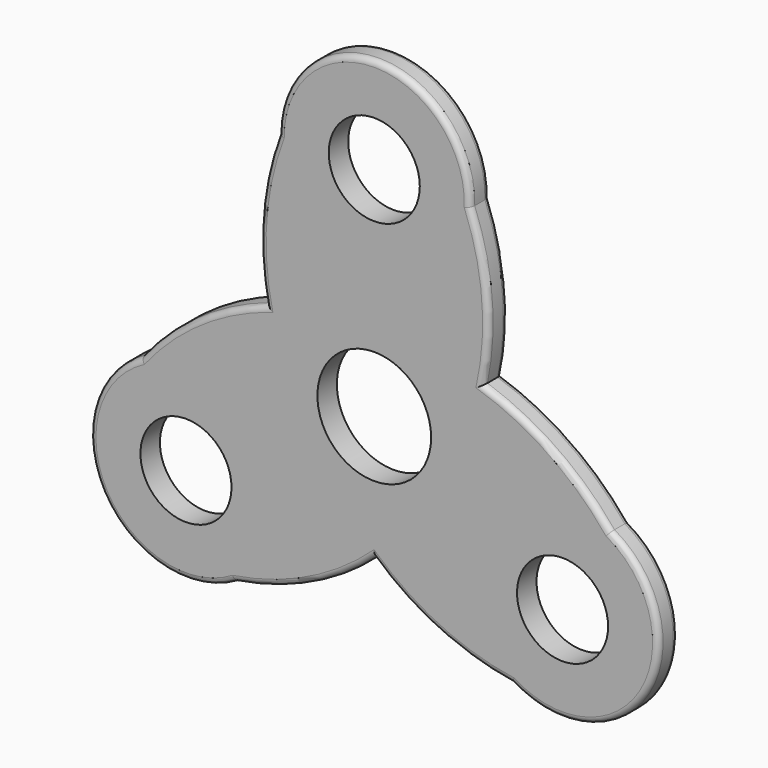
from build123d import *

# Parameters (mm, degrees)
F0_R     = 11.8632229494
F0_R_2   = 14.8180946675
F1_DEPTH = 6.35
F2_R     = 1.524


with BuildPart() as f1:
    # F0 (on Front) → F1 (new body)
    with BuildSketch(Plane.XZ):
        with BuildLine():
            ThreePointArc((28.2651000935, 16.2447427168), (29.5213330142, 36.295048472), (24.9722020683, 55.8628355125))
            ThreePointArc((24.9722020683, 55.8628355125), (0.3052404709, 81.6309900945), (-24.9839383466, 56.4732036309))
            ThreePointArc((-24.9839383466, 56.4732036309), (-29.4766408592, 36.6458464542), (-28.2009099175, 16.3559233631))
            ThreePointArc((-28.2009099175, 16.3559233631), (-46.1931005154, 7.4187001078), (-60.8647357154, -6.3048563767))
            ThreePointArc((-60.8647357154, -6.3048563767), (-70.8471313934, -40.5511490452), (-36.4152598042, -49.8733271102))
            ThreePointArc((-36.4152598042, -49.8733271102), (-16.9979135429, -43.8504430294), (-0.064190176, -32.6006660799))
            ThreePointArc((-0.064190176, -32.6006660799), (16.6717675012, -43.7137485798), (35.8925336471, -49.5579791358))
            ThreePointArc((35.8925336471, -49.5579791358), (70.5418909225, -41.0798410493), (61.3991981508, -6.5998765207))
            ThreePointArc((61.3991981508, -6.5998765207), (46.4745544022, 7.2045965752), (28.2651000935, 16.2447427168))
        make_face()
        with Locations((-49.0588693263, -28.3241514117)):
            Circle(F0_R, mode=Mode.SUBTRACT)
        with Locations((49.0588693263, -28.3241514117)):
            Circle(F0_R, mode=Mode.SUBTRACT)
        Circle(F0_R_2, mode=Mode.SUBTRACT)
        with Locations((0, 56.6483028233)):
            Circle(F0_R, mode=Mode.SUBTRACT)
    extrude(amount=F1_DEPTH)

    # F2 (call 1 of 3: OpenCascade refuses the feature's edges together)
    f2_edges = [f1.edges().sort_by_distance(p)[0] for p in [
        (0.30524, -6.35, 81.63099),
        (29.521333, -6.35, 36.295048),
        (46.474554, -6.35, 7.204597),
        (70.541891, -6.35, -41.079841),
        (16.671768, -6.35, -43.713749),
        (-16.997914, -6.35, -43.850443),
        (-70.847131, -6.35, -40.551149),
        (-46.193101, -6.35, 7.4187),
        (-29.476641, -6.35, 36.645846),
    ]]
    fillet(f2_edges, radius=F2_R)

    # F2#2 (call 2 of 3)
    f2_2_edges = [f1.edges().sort_by_distance(p)[0] for p in [
        (0.30524, 0, 81.63099),
        (29.521333, 0, 36.295048),
        (46.474554, 0, 7.204597),
        (70.541891, 0, -41.079841),
    ]]
    fillet(f2_2_edges, radius=F2_R)

    # F2#3 (call 3 of 3)
    f2_3_edges = [f1.edges().sort_by_distance(p)[0] for p in [
        (-46.193101, 0, 7.4187),
    ]]
    fillet(f2_3_edges, radius=F2_R)


solid = f1.part
